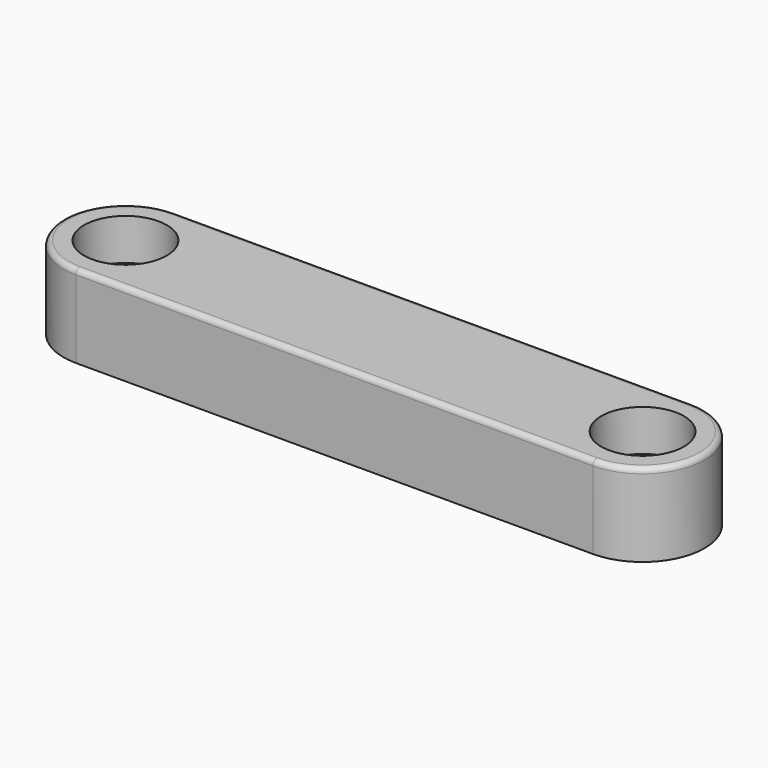
from build123d import *

# Parameters (mm, degrees)
F0_R     = 5
F0_R_2   = 4
F0_R_3   = 2.1
F1_DEPTH = 8
F2_DEPTH = 25
F3_R     = 4
F3_R_2   = 2.1
F4_DEPTH = 4
F5_DEPTH = 6
F6_DEPTH = 1
F7_R     = 0.5


with BuildPart() as f1:
    # F0 (on Top) → F1 (new body)
    with BuildSketch(Plane.XY):
        with BuildLine():
            ThreePointArc((-96.161356, -13.406398), (-102.161356, -19.406398), (-96.161356, -25.406398))
            Line((-96.161356, -25.406398), (-46.161356, -25.406398))
            ThreePointArc((-46.161356, -25.406398), (-40.161356, -19.406398), (-46.161356, -13.406398))
            Line((-46.161356, -13.406398), (-96.161356, -13.406398))
        make_face()
        with BuildLine():
            Line((-96.161356, -13.906398), (-46.161356, -13.906398))
            ThreePointArc((-46.161356, -13.906398), (-40.661356, -19.406398), (-46.161356, -24.906398))
            Line((-46.161356, -24.906398), (-96.161356, -24.906398))
            ThreePointArc((-96.161356, -24.906398), (-101.661356, -19.406398), (-96.161356, -13.906398))
        make_face(mode=Mode.SUBTRACT)
        with BuildLine():
            ThreePointArc((-46.161356, -24.906398), (-40.661356, -19.406398), (-46.161356, -13.906398))
            Line((-46.161356, -13.906398), (-96.161356, -13.906398))
            ThreePointArc((-96.161356, -13.906398), (-101.661356, -19.406398), (-96.161356, -24.906398))
            Line((-96.161356, -24.906398), (-46.161356, -24.906398))
        make_face()
        with Locations((-96.161356, -19.406398)):
            Circle(F0_R, mode=Mode.SUBTRACT)
        with BuildLine():
            ThreePointArc((-85.161356, -22.406398), (-88.161356, -19.406398), (-85.161356, -16.406398))
            Line((-85.161356, -16.406398), (-57.161356, -16.406398))
            ThreePointArc((-57.161356, -16.406398), (-54.161356, -19.406398), (-57.161356, -22.406398))
            Line((-57.161356, -22.406398), (-85.161356, -22.406398))
        make_face(mode=Mode.SUBTRACT)
        with Locations((-46.161356, -19.406398)):
            Circle(F0_R, mode=Mode.SUBTRACT)
        with Locations((-96.161356, -19.406398)):
            Circle(F0_R)
        with Locations((-96.161356, -19.406398)):
            Circle(F0_R_2, mode=Mode.SUBTRACT)
        with Locations((-96.161356, -19.406398)):
            Circle(F0_R_2)
        with Locations((-96.161356, -19.406398)):
            Circle(F0_R_3, mode=Mode.SUBTRACT)
        with Locations((-96.161356, -19.406398)):
            Circle(F0_R_3)
        with BuildLine():
            Line((-57.161356, -16.406398), (-85.161356, -16.406398))
            ThreePointArc((-85.161356, -16.406398), (-88.161356, -19.406398), (-85.161356, -22.406398))
            Line((-85.161356, -22.406398), (-57.161356, -22.406398))
            ThreePointArc((-57.161356, -22.406398), (-54.161356, -19.406398), (-57.161356, -16.406398))
        make_face()
        with Locations((-46.161356, -19.406398)):
            Circle(F0_R)
        with Locations((-46.161356, -19.406398)):
            Circle(F0_R_2, mode=Mode.SUBTRACT)
        with Locations((-46.161356, -19.406398)):
            Circle(F0_R_2)
        with Locations((-46.161356, -19.406398)):
            Circle(F0_R_3, mode=Mode.SUBTRACT)
        with Locations((-46.161356, -19.406398)):
            Circle(F0_R_3)
    extrude(amount=F1_DEPTH)

    # F0 (on Top) → F2 (cut)
    with BuildSketch(Plane.XY):
        with Locations((-96.161356, -19.406398)):
            Circle(F0_R_3)
        with Locations((-46.161356, -19.406398)):
            Circle(F0_R_3)
    extrude(amount=F2_DEPTH, mode=Mode.SUBTRACT)

    # F3 (on face) → F4 (cut)
    with BuildSketch(Plane.XY.offset(8)):
        with Locations((-96.161356, -19.406398)):
            Circle(F3_R)
        with Locations((-96.161356, -19.406398)):
            Circle(F3_R_2, mode=Mode.SUBTRACT)
        with Locations((-46.161356, -19.406398)):
            Circle(F3_R)
        with Locations((-46.161356, -19.406398)):
            Circle(F3_R_2, mode=Mode.SUBTRACT)
    extrude(amount=-F4_DEPTH, mode=Mode.SUBTRACT)

    # F0 (on Top) → F5 (cut)
    with BuildSketch(Plane.XY):
        with BuildLine():
            Line((-57.161356, -16.406398), (-85.161356, -16.406398))
            ThreePointArc((-85.161356, -16.406398), (-88.161356, -19.406398), (-85.161356, -22.406398))
            Line((-85.161356, -22.406398), (-57.161356, -22.406398))
            ThreePointArc((-57.161356, -22.406398), (-54.161356, -19.406398), (-57.161356, -16.406398))
        make_face()
    extrude(amount=F5_DEPTH, mode=Mode.SUBTRACT)

    # F0 (on Top) → F6 (cut)
    with BuildSketch(Plane.XY):
        with Locations((-96.161356, -19.406398)):
            Circle(F0_R)
        with Locations((-96.161356, -19.406398)):
            Circle(F0_R_2, mode=Mode.SUBTRACT)
        with Locations((-96.161356, -19.406398)):
            Circle(F0_R_2)
        with Locations((-96.161356, -19.406398)):
            Circle(F0_R_3, mode=Mode.SUBTRACT)
        with Locations((-46.161356, -19.406398)):
            Circle(F0_R)
        with Locations((-46.161356, -19.406398)):
            Circle(F0_R_2, mode=Mode.SUBTRACT)
        with Locations((-46.161356, -19.406398)):
            Circle(F0_R_2)
        with Locations((-46.161356, -19.406398)):
            Circle(F0_R_3, mode=Mode.SUBTRACT)
    extrude(amount=F6_DEPTH, mode=Mode.SUBTRACT)

    # F7
    f7_edges = [f1.edges().sort_by_distance(p)[0] for p in [
        (-71.161356, -25.406398, 8),
    ]]
    fillet(f7_edges, radius=F7_R)


solid = f1.part
